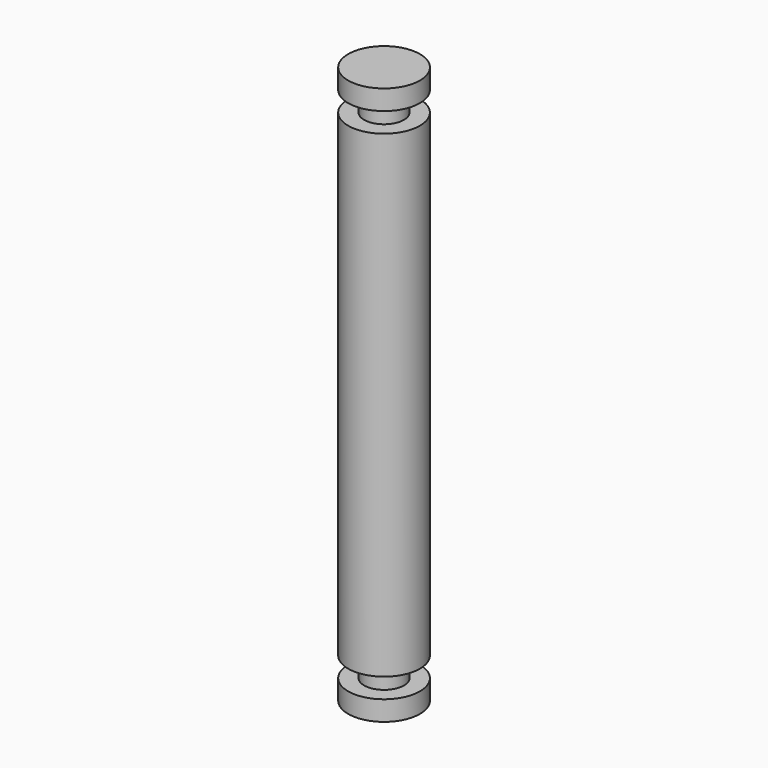
from build123d import *

# Parameters (mm, degrees)
F0_R     = 9
F1_DEPTH = 120
F2_R     = 5
F3_DEPTH = 5
F4_R     = 9
F4_R_2   = 5
F5_DEPTH = 5
F6_R     = 5
F7_DEPTH = 5
F8_R     = 9
F8_R_2   = 5
F9_DEPTH = 5


with BuildPart() as f1:
    # F0 (on Top) → F1 (new body)
    with BuildSketch(Plane.XY):
        Circle(F0_R)
    extrude(amount=F1_DEPTH)

    # F2 (on face) → F3 (join)
    with BuildSketch(Plane.XY.offset(120)):
        Circle(F2_R)
    extrude(amount=F3_DEPTH)

    # F4 (on face) → F5 (join)
    with BuildSketch(Plane.XY.offset(125)):
        Circle(F4_R)
        Circle(F4_R_2, mode=Mode.SUBTRACT)
        Circle(F4_R_2)
    extrude(amount=F5_DEPTH)

    # F6 (on face) → F7 (join)
    with BuildSketch(Plane(origin=(0, 0, 0), x_dir=(1, 0, 0), z_dir=(0, 0, -1))):
        Circle(F6_R)
    extrude(amount=F7_DEPTH)

    # F8 (on face) → F9 (join)
    with BuildSketch(Plane(origin=(0, 0, -5), x_dir=(1, 0, 0), z_dir=(0, 0, -1))):
        Circle(F8_R)
        Circle(F8_R_2, mode=Mode.SUBTRACT)
        Circle(F8_R_2)
    extrude(amount=F9_DEPTH)


solid = f1.part
